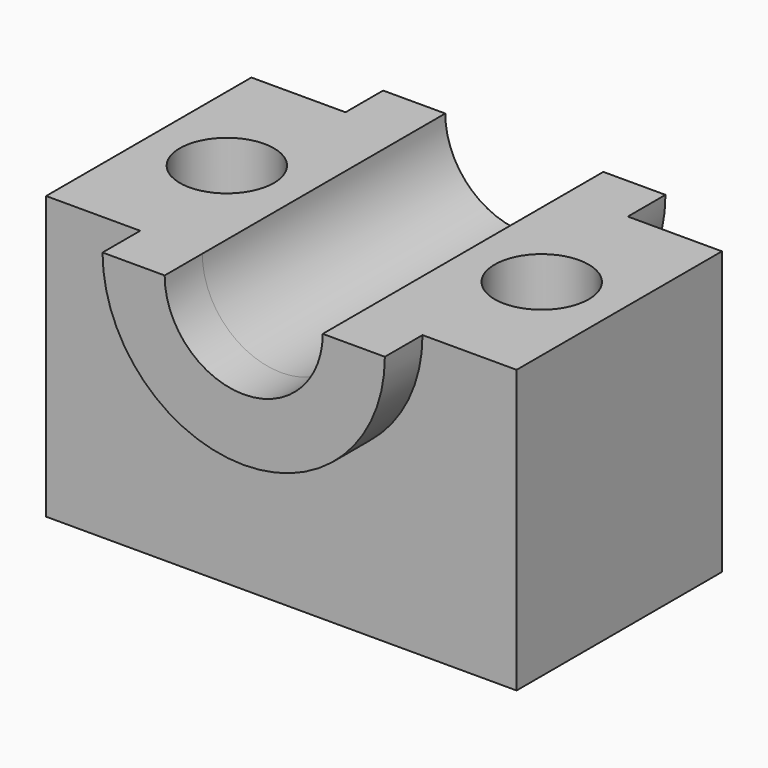
from build123d import *

# Parameters (mm, degrees)
F1_DEPTH = 76.2
F3_DEPTH = 12.7
F4_R     = 21.3338739626
F5_DEPTH = 101.6
F7_DEPTH = 12.7
F9_DEPTH = 127


with BuildPart() as f1:
    # F0 (on Top) → F1 (new body)
    with BuildSketch(Plane.XY):
        Polygon((38.1, -34.6363636543), (63.5, -34.6363636543), (63.5, 34.6363636543), (38.1, 34.6363636543), (38.1, 47.3363636543), (-38.1, 47.3363636543), (-38.1, 34.6363636543), (-63.5, 34.6363636543), (-63.5, -34.6363636543), (-38.1, -34.6363636543), (-38.1, -47.3363636543), (38.1, -47.3363636543), align=None)
    extrude(amount=F1_DEPTH)

    # F2 (on face) → F3 (cut)
    with BuildSketch(Plane.XZ.offset(47.3363636543)):
        with BuildLine():
            Line((38.1, 0), (38.1, 76.2))
            ThreePointArc((38.1, 76.2), (0, 38.1), (-38.1, 76.2))
            Line((-38.1, 76.2), (-38.1, 0))
            Line((-38.1, 0), (38.1, 0))
        make_face()
        with BuildLine():
            Line((21.3338739626, 76.2), (38.1, 76.2))
            ThreePointArc((38.1, 76.2), (0, 114.3), (-38.1, 76.2))
            Line((-38.1, 76.2), (-21.3338739626, 76.2))
            ThreePointArc((-21.3338739626, 76.2), (0, 97.5338739626), (21.3338739626, 76.2))
        make_face()
        with BuildLine():
            ThreePointArc((-21.3338739626, 76.2), (0, 54.8661260374), (21.3338739626, 76.2))
            Line((21.3338739626, 76.2), (-21.3338739626, 76.2))
        make_face()
    extrude(amount=-F3_DEPTH, mode=Mode.SUBTRACT)

    # F4 (on face) → F5 (cut)
    with BuildSketch(Plane.XZ.offset(34.6363636543)):
        with Locations((0, 76.2)):
            Circle(F4_R)
    extrude(amount=-F5_DEPTH, mode=Mode.SUBTRACT)

    # F6 (on face) → F7 (cut)
    with BuildSketch(Plane(origin=(0, 47.3363636543, 0), x_dir=(-1, 0, 0), z_dir=(0, 1, 0))):
        with BuildLine():
            ThreePointArc((38.1, 76.2), (0, 38.1), (-38.1, 76.2))
            Line((-38.1, 76.2), (-38.1, 0))
            Line((-38.1, 0), (38.1, 0))
            Line((38.1, 0), (38.1, 76.2))
        make_face()
    extrude(amount=-F7_DEPTH, mode=Mode.SUBTRACT)

    # F8 (on face) → F9 (cut)
    with BuildSketch(Plane.XY.offset(76.2)):
        with BuildLine():
            Line((55.2647357479, 0), (29.8647357479, 0))
            ThreePointArc((29.8647357479, 0), (42.5647357479, -12.7), (55.2647357479, 0))
        make_face()
        with BuildLine():
            ThreePointArc((55.2647357479, 0), (42.5647357479, 12.7), (29.8647357479, 0))
            Line((29.8647357479, 0), (55.2647357479, 0))
        make_face()
        with BuildLine():
            ThreePointArc((-55.1169369813, 0), (-42.4169369813, -12.7), (-29.7169369813, 0))
            Line((-29.7169369813, 0), (-55.1169369813, 0))
        make_face()
        with BuildLine():
            Line((-55.1169369813, 0), (-29.7169369813, 0))
            ThreePointArc((-29.7169369813, 0), (-42.4169369813, 12.7), (-55.1169369813, 0))
        make_face()
    extrude(amount=-F9_DEPTH, mode=Mode.SUBTRACT)


solid = f1.part
